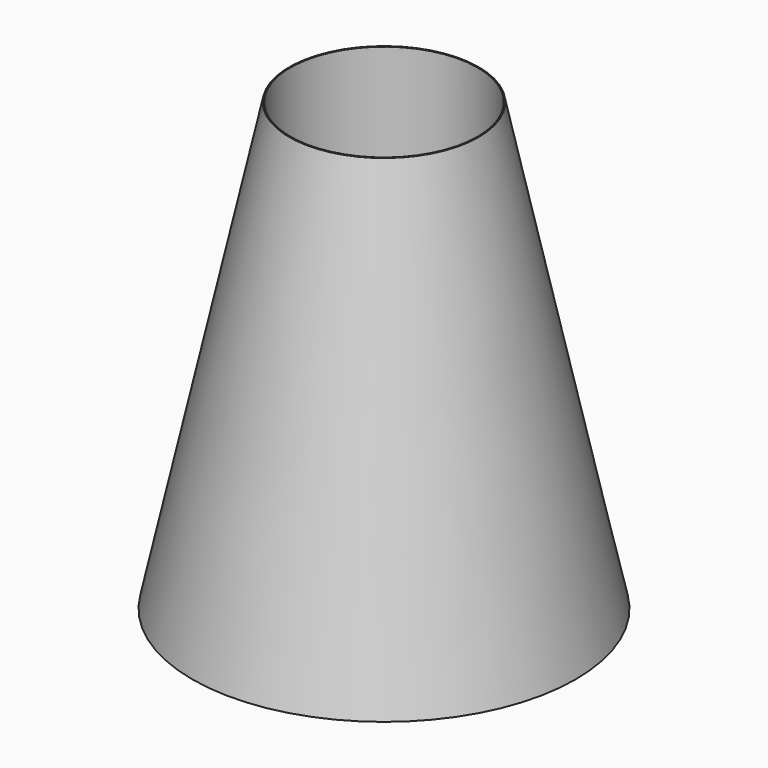
from build123d import *

# Parameters (mm, degrees)
F0_R     = 2.1844
F2_R     = 1.0795
F4_R     = 1.0668
F5_DEPTH = 127


with BuildPart() as f3:
    # F0 (on Top) → F3 section 0
    with BuildSketch(Plane.XY):
        Circle(F0_R)
    # F2 (on offset) → F3 section 1
    with BuildSketch(Plane.XY.offset(5.08)):
        Circle(F2_R)
    loft()

    # F4 (on face) → F5 (cut)
    with BuildSketch(Plane.XY.offset(5.08)):
        Circle(F4_R)
    extrude(amount=-F5_DEPTH, mode=Mode.SUBTRACT)


solid = f3.part
